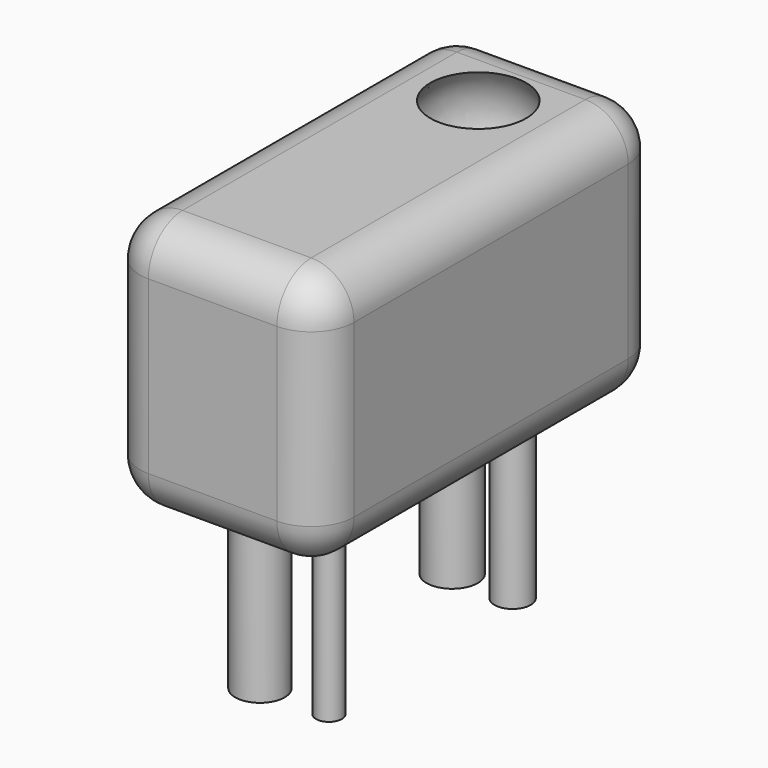
from build123d import *

# Parameters (mm, degrees)
F0_W     = 254
F0_H     = 152.4
F1_DEPTH = 127
F2_R     = 25.4
F6_R     = 14.6864926798
F6_R_2   = 7.661429367
F6_R_3   = 15.1712278357
F6_R_4   = 10.7604265213
F7_DEPTH = 101.6


with BuildPart() as f1:
    # F0 (on Right) → F1 (new body)
    with BuildSketch(Plane.YZ):
        with Locations((127, 76.2)):
            Rectangle(F0_W, F0_H)
    extrude(amount=F1_DEPTH)

    # F2
    f2_edges = [f1.edges().sort_by_distance(p)[0] for p in [
        (63.5, 254, 152.4),
        (63.5, 0, 152.4),
        (0, 127, 152.4),
        (127, 127, 152.4),
        (63.5, 254, 0),
        (0, 254, 76.2),
        (127, 254, 76.2),
        (127, 0, 76.2),
        (127, 127, 0),
        (0, 0, 76.2),
        (0, 127, 0),
        (63.5, 0, 0),
    ]]
    fillet(f2_edges, radius=F2_R)

    # F4 (on offset) → F5 (revolve, cut)
    with BuildSketch(Plane.XY.offset(127)):
        with BuildLine():
            Line((63.5, 158.75), (63.5, 234.95))
            ThreePointArc((63.5, 234.95), (25.4, 196.85), (63.5, 158.75))
        make_face()
    revolve(axis=Axis((63.5, 196.85, 127), (0, -1, 0)), mode=Mode.SUBTRACT)

    # F6 (on face) → F7 (join)
    with BuildSketch(Plane(origin=(0, 0, 0), x_dir=(1, 0, 0), z_dir=(0, 0, -1))):
        with Locations((47.7847903967, -54.721660912)):
            Circle(F6_R)
        with Locations((89.0330970287, -54.2733110487)):
            Circle(F6_R_2)
        with Locations((45.5430299044, -199.9874413013)):
            Circle(F6_R_3)
        with Locations((82.7561765909, -198.1940418482)):
            Circle(F6_R_4)
    extrude(amount=F7_DEPTH)


solid = f1.part
